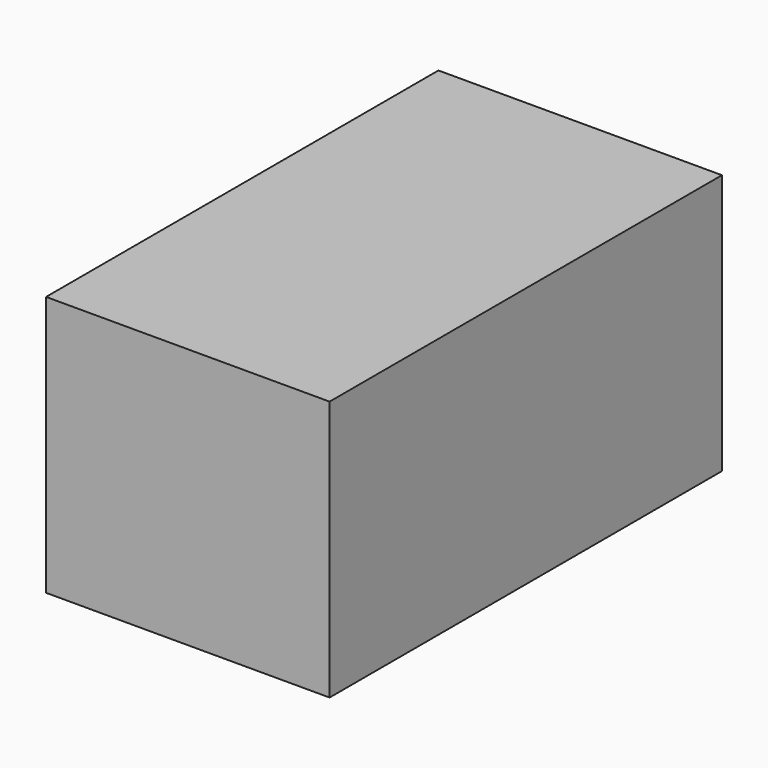
from build123d import *

# Parameters (mm, degrees)
BOX002001002_W     = 35
BOX002001002_H     = 60
BOX002001002_DEPTH = 30
BOX002001003_W     = 37
BOX002001003_H     = 64
BOX002001003_DEPTH = 34


with BuildPart() as box002001002:
    # Box002001002 → Box002001002 (new body)
    with BuildSketch(Plane(origin=(-10, -18, -30), x_dir=(1, 0, 0), z_dir=(0, 0, 1))):
        with Locations((17.5, 30)):
            Rectangle(BOX002001002_W, BOX002001002_H)
    extrude(amount=BOX002001002_DEPTH)


with BuildPart() as cut001:
    # Box002001003 → Box002001003 (new body)
    with BuildSketch(Plane(origin=(-10, -20, -32), x_dir=(1, 0, 0), z_dir=(0, 0, 1))):
        with Locations((18.5, 32)):
            Rectangle(BOX002001003_W, BOX002001003_H)
    extrude(amount=BOX002001003_DEPTH)

    # Cut001: cut Box002001002
    add(box002001002.part, mode=Mode.SUBTRACT)


solid = cut001.part
